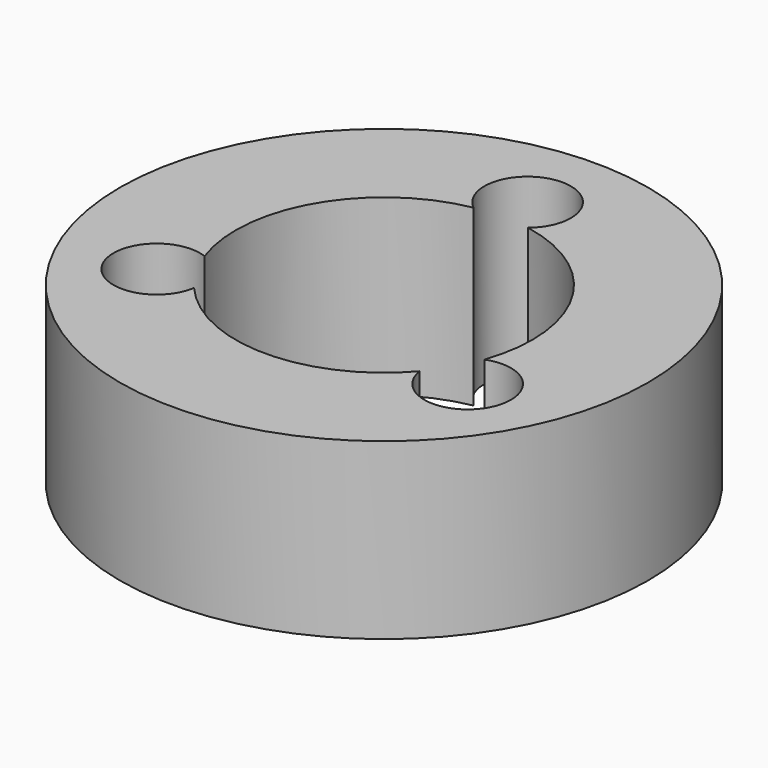
from build123d import *

# Parameters (mm, degrees)
F0_R     = 38.498583
F1_DEPTH = 25.4


with BuildPart() as f1:
    # F0 (on Top) → F1 (new body)
    with BuildSketch(Plane.XY):
        Circle(F0_R)
        with BuildLine():
            ThreePointArc((-3.962465, 21.263209), (-2.715634, 31.852048), (6.302647, 26.164457))
            ThreePointArc((6.302647, 26.164457), (5.687591, 23.448823), (3.962465, 21.263209))
            ThreePointArc((3.962465, 21.263209), (16.636262, 13.822445), (21.629267, 0))
            ThreePointArc((21.629267, 0), (21.318648, -3.652458), (20.395712, -7.200009))
            ThreePointArc((20.395712, -7.200009), (26.226866, -7.886625), (28.961732, -13.082229))
            ThreePointArc((28.961732, -13.082229), (23.151072, -19.365644), (16.433247, -14.0632))
            ThreePointArc((16.433247, -14.0632), (0, -21.629267), (-16.433247, -14.0632))
            ThreePointArc((-16.433247, -14.0632), (-28.117337, -16.233552), (-20.395712, -7.200009))
            ThreePointArc((-20.395712, -7.200009), (-18.731495, 10.814634), (-3.962465, 21.263209))
        make_face(mode=Mode.SUBTRACT)
    extrude(amount=F1_DEPTH)


solid = f1.part
